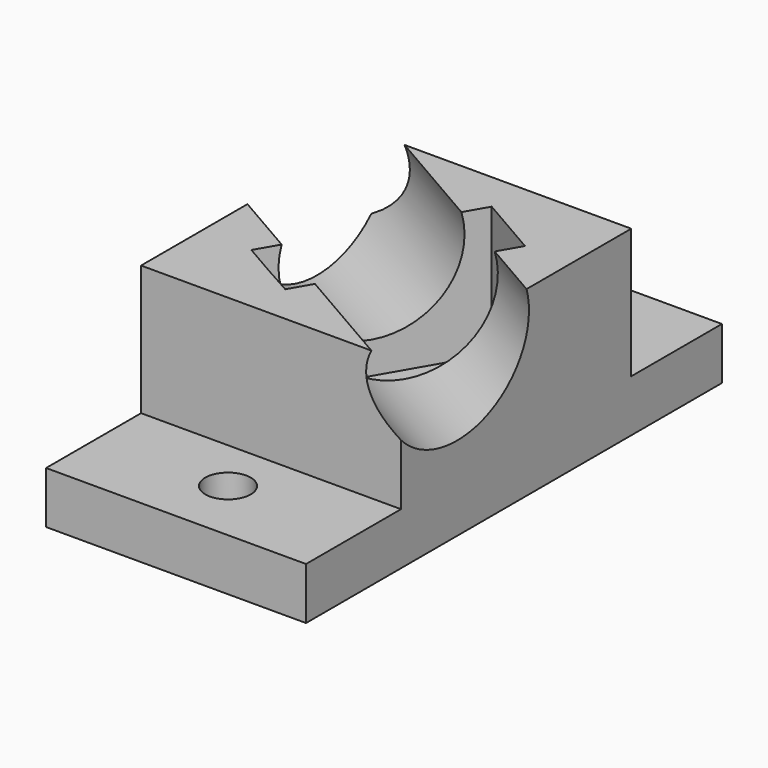
from build123d import *

# Parameters (mm, degrees)
F0_W          = 20
F0_H          = 40
F0_R          = 1.75
F1_DEPTH      = 14
F2_W          = 20
F2_H          = 8.7217967697
F2_H_2        = 9.1349255253
F3_DEPTH      = 10
F4_R          = 6
F5_DEPTH      = 14
F5_DEPTH_BACK = 20


with BuildPart() as f1:
    # F0 (on Top) → F1 (new body)
    with BuildSketch(Plane.XY):
        Rectangle(F0_W, F0_H)
        with Locations((0, -15)):
            Circle(F0_R, mode=Mode.SUBTRACT)
        with Locations((0, 15)):
            Circle(F0_R, mode=Mode.SUBTRACT)
    extrude(amount=F1_DEPTH)

    # F2 (on face) → F3 (cut)
    with BuildSketch(Plane.XY.offset(14)):
        Polygon((-6.0882685902, -5.1451905284), (-3.75, -6.4951905284), (-1.3077413577, -7.8650744747), (6.4248711306, 5.5282032303), (1.6617314098, 8.2782032303), align=None)
        with Locations((0, 15.6391016151)):
            Rectangle(F2_W, F2_H)
        with Locations((0, -15.4325372373)):
            Rectangle(F2_W, F2_H_2)
    extrude(amount=-F3_DEPTH, mode=Mode.SUBTRACT)

    # F4 (on face) → F5 (cut, two sides)
    with BuildSketch(Plane(origin=(-2.3382685902, 1.35, 0), x_dir=(0.5, 0.8660254038, 0), z_dir=(0.8660254038, -0.5, 0))) as f5_sk:
        with Locations((0.25, 12.454691343)):
            Circle(F4_R)
    extrude(amount=-F5_DEPTH, mode=Mode.SUBTRACT)
    extrude(f5_sk.sketch, amount=F5_DEPTH_BACK, mode=Mode.SUBTRACT)


solid = f1.part
